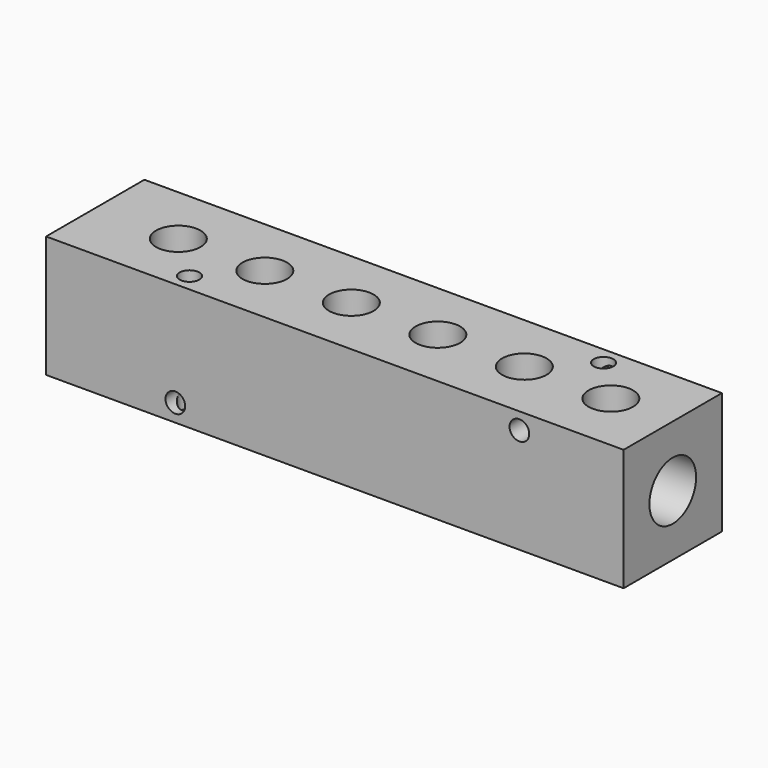
from build123d import *

# Parameters (mm, degrees)
F0_W     = 149.225
F0_H     = 31.496
F1_DEPTH = 31.75
F2_R     = 5.754688
F3_DEPTH = 15.875
F4_R     = 7.540625
F5_DEPTH = 149.226
F6_R     = 2.54
F7_DEPTH = 31.751
F8_R     = 2.54
F9_DEPTH = 31.497


with BuildPart() as f1:
    # F0 (on Front) → F1 (new body)
    with BuildSketch(Plane.XZ):
        Rectangle(F0_W, F0_H)
    extrude(amount=-F1_DEPTH)

    # F2 (on Top) → F3 (cut)
    with BuildSketch(Plane.XY):
        with Locations((-53.1495, 15.875)):
            Circle(F2_R)
        with Locations((-30.7975, 15.875)):
            Circle(F2_R)
        with Locations((-8.4455, 15.875)):
            Circle(F2_R)
        with Locations((13.9065, 15.875)):
            Circle(F2_R)
        with Locations((36.2585, 15.875)):
            Circle(F2_R)
        with Locations((58.6105, 15.875)):
            Circle(F2_R)
    extrude(amount=F3_DEPTH, mode=Mode.SUBTRACT)

    # F4 (on face) → F5 (cut, through all)
    with BuildSketch(Plane.YZ.offset(74.6125)):
        with Locations((15.875, 0)):
            Circle(F4_R)
    extrude(amount=-F5_DEPTH, mode=Mode.SUBTRACT)

    # F6 (on face) → F7 (cut, through all)
    with BuildSketch(Plane.XZ):
        with Locations((-41.2115, -11.176)):
            Circle(F6_R)
        with Locations((47.6885, 11.43)):
            Circle(F6_R)
    extrude(amount=-F7_DEPTH, mode=Mode.SUBTRACT)

    # F8 (on face) → F9 (cut, through all)
    with BuildSketch(Plane.XY.offset(15.748)):
        with Locations((47.6885, 27.178)):
            Circle(F8_R)
        with Locations((-41.2115, 4.572)):
            Circle(F8_R)
    extrude(amount=-F9_DEPTH, mode=Mode.SUBTRACT)


solid = f1.part
